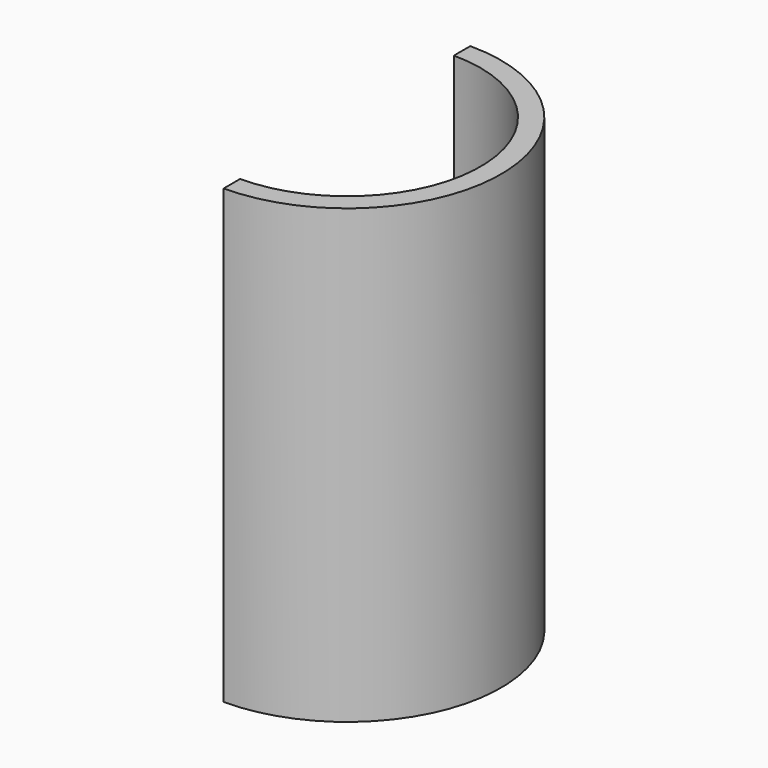
from build123d import *

# Parameters (mm, degrees)
F1_DEPTH       = 133.35
F3_DEPTH       = 6.35
F7_DEPTH       = 3.81
F9_DEPTH       = 2.54
F9_DEPTH_BACK  = 2.54
F13_DEPTH      = 2.54
F13_DEPTH_BACK = 2.54
F15_DEPTH      = 2.54
F15_DEPTH_BACK = 2.54
F16_R          = 0.127
F16_2_R        = 0.127
F16_3_R        = 0.127


with BuildPart() as f1:
    # F0 (on Top) → F1 (new body)
    with BuildSketch(Plane.XY):
        with BuildLine():
            Line((0, 41.275), (0, 47.625))
            ThreePointArc((0, 47.625), (-47.625, 0), (0, -47.625))
            Line((0, -47.625), (0, -41.275))
            ThreePointArc((0, -41.275), (-41.275, 0), (0, 41.275))
        make_face()
    extrude(amount=F1_DEPTH)

    # F2 (on Top) → F3 (join)
    with BuildSketch(Plane.XY):
        with BuildLine():
            Line((0, -47.625), (0, 47.625))
            ThreePointArc((0, 47.625), (-47.625, 0), (0, -47.625))
        make_face()
    extrude(amount=-F3_DEPTH)


with BuildPart() as f4_1:
    # F4: instance of F1
    add(f1.part.mirror(Plane.YZ))

    # F6 (on face) → F7 (cut)
    with BuildSketch(Plane.XY):
        with BuildLine():
            ThreePointArc((12.7, 39.272581), (6.428446, 40.771322), (0, 41.275))
            Line((0, 41.275), (0, -41.275))
            ThreePointArc((0, -41.275), (6.428446, -40.771322), (12.7, -39.272581))
            Line((12.7, -39.272581), (12.7, 39.272581))
        make_face()
    extrude(amount=-F7_DEPTH, mode=Mode.SUBTRACT)

    # F8 (on Front) → F9 (join, two sides)
    with BuildSketch(Plane.XZ) as f9_sk:
        with BuildLine():
            Line((6.35, -3.81), (6.35, -2.838978))
            ThreePointArc((6.35, -2.838978), (6.291667, -2.727128), (6.166562, -2.710945))
            Line((6.166562, -2.710945), (3.175, -3.81))
            Line((3.175, -3.81), (6.35, -3.81))
        make_face()
    extrude(amount=F9_DEPTH)
    extrude(f9_sk.sketch, amount=-F9_DEPTH_BACK)

    # F16
    f16_edges = [f4_1.edges().sort_by_distance(p)[0] for p in [
        (6.35, 0, -3.81),
    ]]
    fillet(f16_edges, radius=F16_R)


with BuildPart() as f13:
    # F12 (on offset) → F13 (new body, two sides)
    with BuildSketch(Plane.XZ.offset(24.13)) as f13_sk:
        with BuildLine():
            Line((6.354249, -3.800853), (6.354249, -2.829831))
            ThreePointArc((6.354249, -2.829831), (6.295917, -2.717981), (6.170812, -2.701798))
            Line((6.170812, -2.701798), (3.179249, -3.800853))
            Line((3.179249, -3.800853), (6.354249, -3.800853))
        make_face()
    extrude(amount=F13_DEPTH)
    extrude(f13_sk.sketch, amount=-F13_DEPTH_BACK)

    # F16#2
    f16_2_edges = [f13.edges().sort_by_distance(p)[0] for p in [
        (6.354249, -24.13, -3.800853),
    ]]
    fillet(f16_2_edges, radius=F16_2_R)


with BuildPart() as f15:
    # F14 (on offset) → F15 (new body, two sides)
    with BuildSketch(Plane.XZ.offset(-24.13)) as f15_sk:
        with BuildLine():
            Line((6.344399, -3.796118), (6.344399, -2.825097))
            ThreePointArc((6.344399, -2.825097), (6.286066, -2.713247), (6.160961, -2.697064))
            Line((6.160961, -2.697064), (3.169399, -3.796118))
            Line((3.169399, -3.796118), (6.344399, -3.796118))
        make_face()
    extrude(amount=F15_DEPTH)
    extrude(f15_sk.sketch, amount=-F15_DEPTH_BACK)

    # F16#3
    f16_3_edges = [f15.edges().sort_by_distance(p)[0] for p in [
        (6.344399, 24.13, -3.796118),
    ]]
    fillet(f16_3_edges, radius=F16_3_R)


solid = Compound([f4_1.part, f13.part, f15.part])
